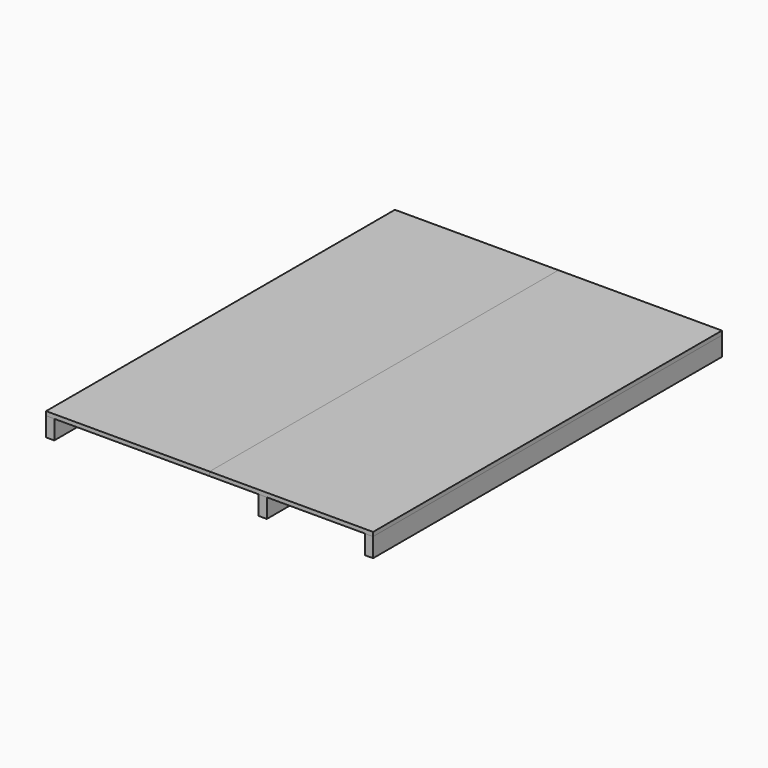
from build123d import *

# Parameters (mm, degrees)
F0_W     = 762
F0_H     = 2032
F1_DEPTH = 19.05
F2_DEPTH = 19.05
F3_W     = 38.1
F3_H     = 88.9
F4_DEPTH = 2032
F7_W     = 38.1
F7_H     = 88.9
F8_DEPTH = 2032


with BuildPart() as f1:
    # F0 (on Top) → F1 (new body)
    with BuildSketch(Plane.XY):
        with Locations((381, 1016)):
            Rectangle(F0_W, F0_H)
    extrude(amount=F1_DEPTH)


with BuildPart() as f2:
    # F0 (on Top) → F2 (new body)
    with BuildSketch(Plane.XY):
        with Locations((-381, 1016)):
            Rectangle(F0_W, F0_H)
    extrude(amount=F2_DEPTH)


with BuildPart() as f4:
    # F3 (on Front) → F4 (new body, through all)
    with BuildSketch(Plane.XZ):
        with Locations((742.95, -44.45)):
            Rectangle(F3_W, F3_H)
    extrude(amount=-F4_DEPTH)


with BuildPart() as f5_1:
    # F5: copy of F4
    add(f4.part.moved(Location((-1485.9, 0, 0))))


with BuildPart() as f8:
    # F7 (on Front) → F8 (new body, through all)
    with BuildSketch(Plane.XZ):
        with Locations((247.65, -44.45)):
            Rectangle(F7_W, F7_H)
    extrude(amount=-F8_DEPTH)


solid = Compound([f1.part, f2.part, f4.part, f5_1.part, f8.part])
